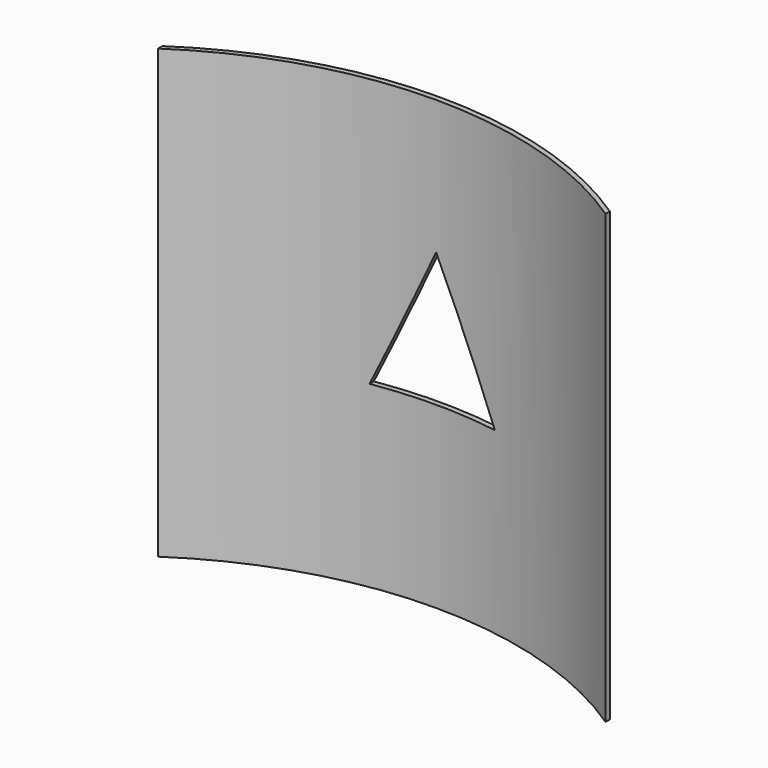
from build123d import *

# Parameters (mm, degrees)
F1_DEPTH = 50
F3_DEPTH = 25


with BuildPart() as f1:
    # F0 (on Top) → F1 (new body)
    with BuildSketch(Plane.XY):
        with BuildLine():
            ThreePointArc((0, 0), (25, 7.583426), (50, 0))
            Line((50, 0), (50, 0.6))
            ThreePointArc((50, 0.6), (25, 8.183426), (0, 0.6))
            Line((0, 0.6), (0, 0))
        make_face()
    extrude(amount=F1_DEPTH)

    # F2 (on Front) → F3 (cut)
    with BuildSketch(Plane.XZ):
        Polygon((25, 35), (18, 20), (32, 20), align=None)
    extrude(amount=-F3_DEPTH, mode=Mode.SUBTRACT)


solid = f1.part
